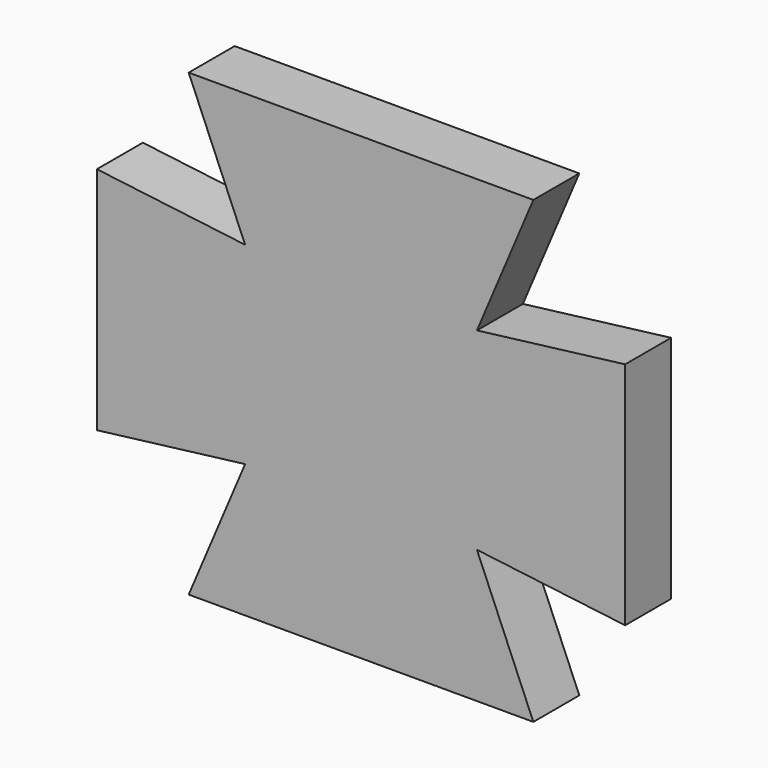
from build123d import *

# Parameters (mm, degrees)
F1_DEPTH = 2.5


with BuildPart() as f1:
    # F0 (on Front) → F1 (new body)
    with BuildSketch(Plane.XZ):
        Polygon((-11.495929, 0), (0, 0), (0, 10), (-7.5, 10), (-5.045101, 4.201994), (-11.495929, 5), align=None)
        Polygon((0, -10), (0, 0), (-11.495929, 0), (-11.495929, -5), (-5.045101, -4.201994), (-7.5, -10), align=None)
    extrude(amount=F1_DEPTH)

    # F2: F1 across plane


with BuildPart() as f1_1:
    add(f1.part)
    add(f1.part.mirror(Plane.YZ))


solid = f1_1.part
